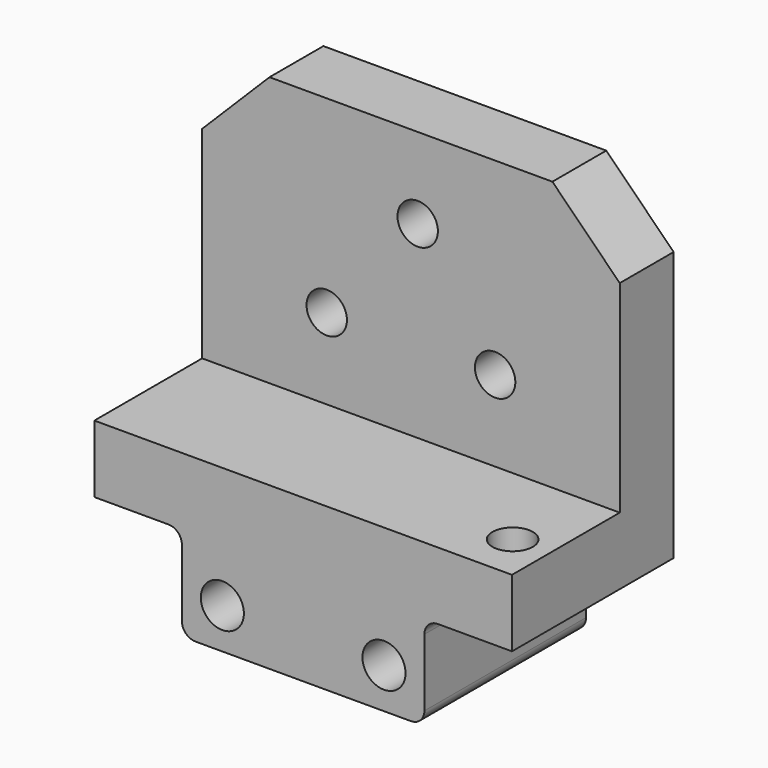
from build123d import *

# Parameters (mm, degrees)
F0_W      = 18
F0_H      = 7
F0_R      = 1.6
F1_DEPTH  = 15
F2_W      = 31
F2_H      = 5
F3_DEPTH  = 20
F4_R      = 1.5
F5_DEPTH  = 25
F6_R      = 1.5
F7_DEPTH  = 4.5
F8_R      = 1
F9_SIZE   = 5
F10_R     = 1.5
F11_DEPTH = 25


with BuildPart() as f1:
    # F0 (on Front) → F1 (new body)
    with BuildSketch(Plane.XZ):
        with Locations((9, 3.5)):
            Rectangle(F0_W, F0_H)
        with Locations((3, 3)):
            Circle(F0_R, mode=Mode.SUBTRACT)
        with Locations((15, 3)):
            Circle(F0_R, mode=Mode.SUBTRACT)
        Polygon((-6.5, 7), (0, 7), (18, 7), (24.5, 7), (24.5, 12), (0, 12), (-6.5, 12), align=None)
    extrude(amount=F1_DEPTH)

    # F2 (on face) → F3 (join)
    with BuildSketch(Plane.XY.offset(12)):
        with Locations((9, -2.5)):
            Rectangle(F2_W, F2_H)
    extrude(amount=F3_DEPTH)

    # F4 (on face) → F5 (cut)
    with BuildSketch(Plane.XZ.offset(5)):
        with Locations((2.75, 18)):
            Circle(F4_R)
        with Locations((15.25, 18)):
            Circle(F4_R)
    extrude(amount=-F5_DEPTH, mode=Mode.SUBTRACT)

    # F6 (on face) → F7 (cut)
    with BuildSketch(Plane.XY.offset(12)):
        with Locations((21.75, -11.5)):
            Circle(F6_R)
    extrude(amount=-F7_DEPTH, mode=Mode.SUBTRACT)

    # F8
    f8_edges = [f1.edges().sort_by_distance(p)[0] for p in [
        (0, -7.5, 0),
        (18, -7.5, 0),
        (0, -7.5, 7),
        (18, -7.5, 7),
    ]]
    fillet(f8_edges, radius=F8_R)

    # F9
    f9_edges = [f1.edges().sort_by_distance(p)[0] for p in [
        (24.5, -2.5, 32),
        (-6.5, -2.5, 32),
    ]]
    chamfer(f9_edges, length=F9_SIZE)

    # F10 (on face) → F11 (cut)
    with BuildSketch(Plane.XZ.offset(5)):
        with Locations((9.5, 26)):
            Circle(F10_R)
    extrude(amount=-F11_DEPTH, mode=Mode.SUBTRACT)


solid = f1.part
